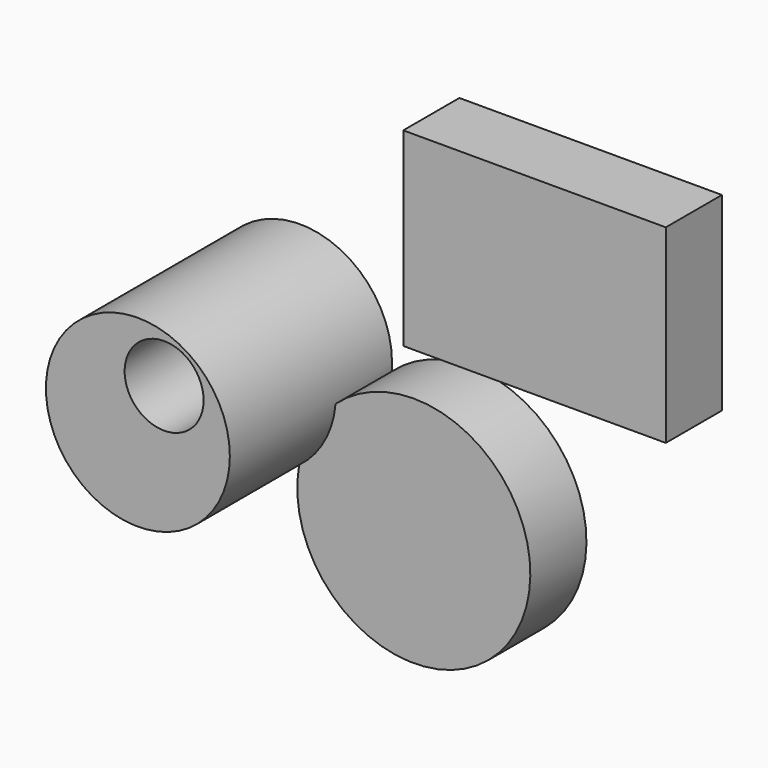
from build123d import *

# Parameters (mm, degrees)
F0_W     = 95.060987
F0_H     = 68.727356
F0_R     = 42.191797
F1_DEPTH = 25.4
F2_R     = 33.301798
F2_R_2   = 14.295405
F3_DEPTH = 73.406


with BuildPart() as f1:
    # F0 (on Front) → F1 (new body)
    with BuildSketch(Plane.XZ):
        with Locations((43.714174, 92.067981)):
            Rectangle(F0_W, F0_H)
        Circle(F0_R)
    extrude(amount=F1_DEPTH)

    # F2 (on Front) → F3 (join)
    with BuildSketch(Plane.XZ):
        with Locations((-61.505731, 34.149442)):
            Circle(F2_R)
        with Locations((-51.99948, 48.837401)):
            Circle(F2_R_2, mode=Mode.SUBTRACT)
    extrude(amount=F3_DEPTH)


solid = f1.part
